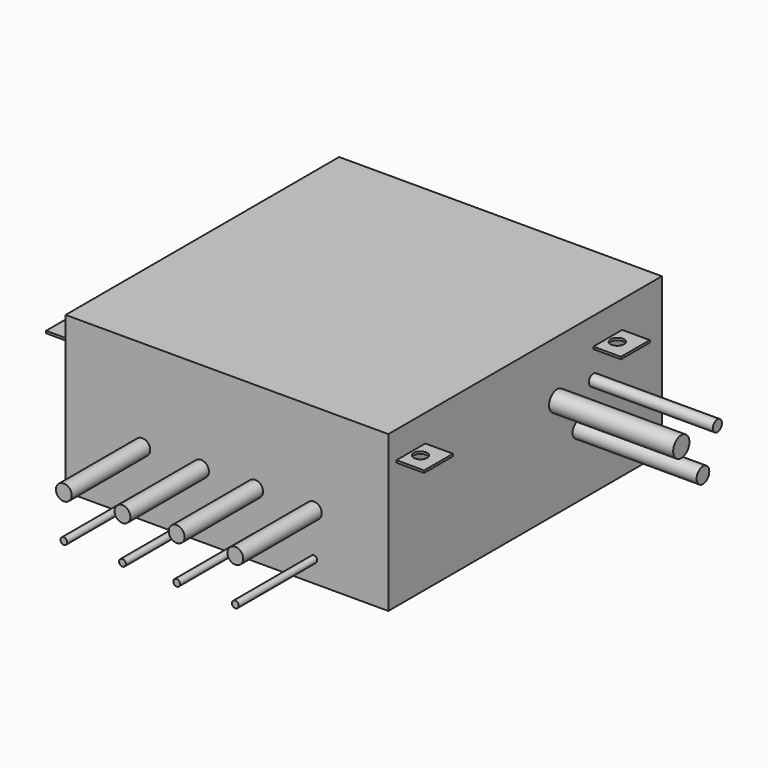
from build123d import *

# Parameters (mm, degrees)
F0_W          = 454.025
F0_H          = 219.075
F1_DEPTH      = 481.0125
F2_R          = 11.1125
F2_R_2        = 4.7625
F3_DEPTH      = 138.1125
F4_R          = 14.2875
F4_R_2        = 7.9375
F4_R_3        = 11.1125
F5_DEPTH      = 174.625
F5_DEPTH_BACK = 628.65
F7_W          = 38.89375
F7_H          = 50.8
F7_R          = 9.525
F8_DEPTH      = 3.175
F9_W          = 152.4
F9_H          = 219.075
F10_DEPTH     = 481.0135


with BuildPart() as f1:
    # F0 (on Front) → F1 (new body)
    with BuildSketch(Plane.XZ):
        with Locations((227.0125, 109.5375)):
            Rectangle(F0_W, F0_H)
    extrude(amount=-F1_DEPTH)

    # F2 (on Front) → F3 (join)
    with BuildSketch(Plane.XZ):
        with Locations((107.95, 90.4875)):
            Circle(F2_R)
        with Locations((107.95, 30.1625)):
            Circle(F2_R_2)
        with Locations((349.25, 90.4875)):
            Circle(F2_R)
        with Locations((349.25, 30.1625)):
            Circle(F2_R_2)
        with Locations((190.5, 90.4875)):
            Circle(F2_R)
        with Locations((266.7, 90.4875)):
            Circle(F2_R)
        with Locations((190.5, 30.1625)):
            Circle(F2_R_2)
        with Locations((266.7, 30.1625)):
            Circle(F2_R_2)
    extrude(amount=F3_DEPTH)

    # F4 (on face) → F5 (join, two sides)
    with BuildSketch(Plane.YZ.offset(454.025)) as f5_sk:
        with Locations((296.8625, 139.7)):
            Circle(F4_R)
        with Locations((360.3625, 139.7)):
            Circle(F4_R_2)
        with Locations((334.9625, 88.9)):
            Circle(F4_R_3)
    extrude(amount=F5_DEPTH)
    extrude(f5_sk.sketch, amount=-F5_DEPTH_BACK)

    # F7 (on offset) → F8 (join)
    with BuildSketch(Plane.XY.offset(180.975)):
        with Locations((-19.446875, 385.7625)):
            Rectangle(F7_W, F7_H)
        with Locations((-13.49375, 385.7625)):
            Circle(F7_R, mode=Mode.SUBTRACT)
        with Locations((-19.446875, 39.6875)):
            Rectangle(F7_W, F7_H)
        with Locations((-13.49375, 39.6875)):
            Circle(F7_R, mode=Mode.SUBTRACT)
        with Locations((473.471875, 385.7625)):
            Rectangle(F7_W, F7_H)
        with Locations((467.51875, 385.7625)):
            Circle(F7_R, mode=Mode.SUBTRACT)
        with Locations((473.471875, 39.6875)):
            Rectangle(F7_W, F7_H)
        with Locations((467.51875, 39.6875)):
            Circle(F7_R, mode=Mode.SUBTRACT)
    extrude(amount=-F8_DEPTH)

    # F9 (on face) → F10 (cut, through all)
    with BuildSketch(Plane.XZ):
        with Locations((-127, 109.5375)):
            Rectangle(F9_W, F9_H)
    extrude(amount=-F10_DEPTH, mode=Mode.SUBTRACT)


solid = f1.part
